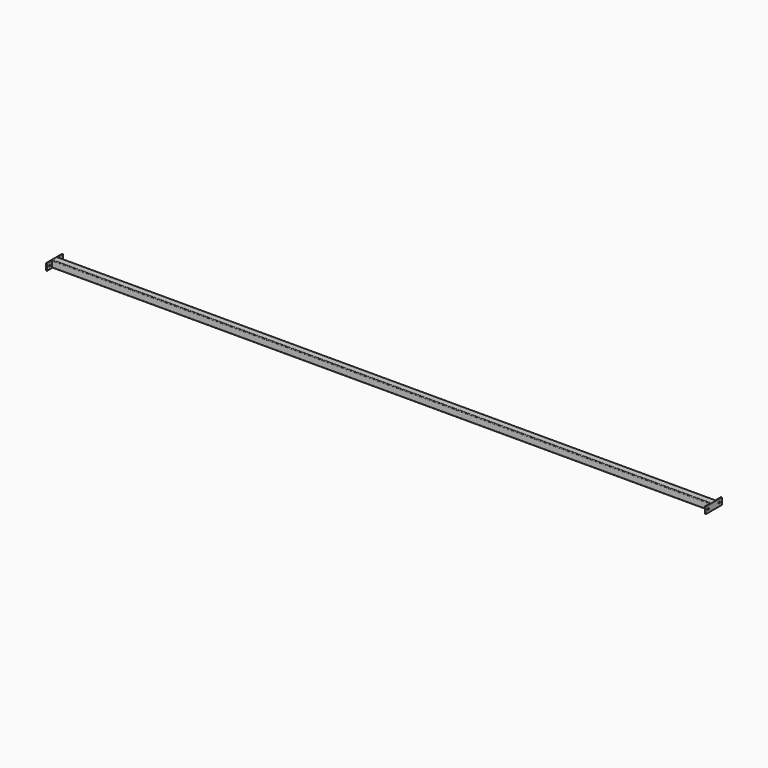
from build123d import *

# Parameters (mm, degrees)
F2_DEPTH = 2898
F4_DEPTH = 3
F5_D     = 8
F6_R     = 4
F7_DEPTH = 3


with BuildPart() as f2:
    # F0 (on Right) → F2 (new body, through all)
    with BuildSketch(Plane.YZ):
        with BuildLine():
            Line((-12, -15), (12, -15))
            ThreePointArc((12, -15), (14.12132, -14.12132), (15, -12))
            Line((15, -12), (15, 12))
            ThreePointArc((15, 12), (14.12132, 14.12132), (12, 15))
            Line((12, 15), (-12, 15))
            ThreePointArc((-12, 15), (-14.12132, 14.12132), (-15, 12))
            Line((-15, 12), (-15, -12))
            ThreePointArc((-15, -12), (-14.12132, -14.12132), (-12, -15))
        make_face()
        with BuildLine():
            ThreePointArc((12, -10), (11.414214, -11.414214), (10, -12))
            Line((10, -12), (-10, -12))
            ThreePointArc((-10, -12), (-11.414214, -11.414214), (-12, -10))
            Line((-12, -10), (-12, 10))
            ThreePointArc((-12, 10), (-11.414214, 11.414214), (-10, 12))
            Line((-10, 12), (10, 12))
            ThreePointArc((10, 12), (11.414214, 11.414214), (12, 10))
            Line((12, 10), (12, -10))
        make_face(mode=Mode.SUBTRACT)
    extrude(amount=F2_DEPTH)

    # F3 (on Right) → F4 (join)
    with BuildSketch(Plane.YZ):
        with BuildLine():
            ThreePointArc((45, 13), (44.414214, 14.414214), (43, 15))
            Line((43, 15), (-43, 15))
            ThreePointArc((-43, 15), (-44.414214, 14.414214), (-45, 13))
            Line((-45, 13), (-45, -13))
            ThreePointArc((-45, -13), (-44.414214, -14.414214), (-43, -15))
            Line((-43, -15), (43, -15))
            ThreePointArc((43, -15), (44.414214, -14.414214), (45, -13))
            Line((45, -13), (45, 13))
        make_face()
    extrude(amount=F4_DEPTH)

    # F5 (through all)
    with Locations(Plane(origin=(0, 0, 0), x_dir=(0, 1, 0), z_dir=(-1, 0, 0))):
        with Locations((30, 0), (-30, 0)):
            Hole(F5_D / 2)

    # F6 (on offset) → F7 (join)
    with BuildSketch(Plane.YZ.offset(2898)):
        with BuildLine():
            ThreePointArc((45, 13), (44.414214, 14.414214), (43, 15))
            Line((43, 15), (-43, 15))
            ThreePointArc((-43, 15), (-44.414214, 14.414214), (-45, 13))
            Line((-45, 13), (-45, -13))
            ThreePointArc((-45, -13), (-44.414214, -14.414214), (-43, -15))
            Line((-43, -15), (43, -15))
            ThreePointArc((43, -15), (44.414214, -14.414214), (45, -13))
            Line((45, -13), (45, 13))
        make_face()
        with Locations((-30, 0)):
            Circle(F6_R, mode=Mode.SUBTRACT)
        with Locations((30, 0)):
            Circle(F6_R, mode=Mode.SUBTRACT)
    extrude(amount=-F7_DEPTH)


solid = f2.part
